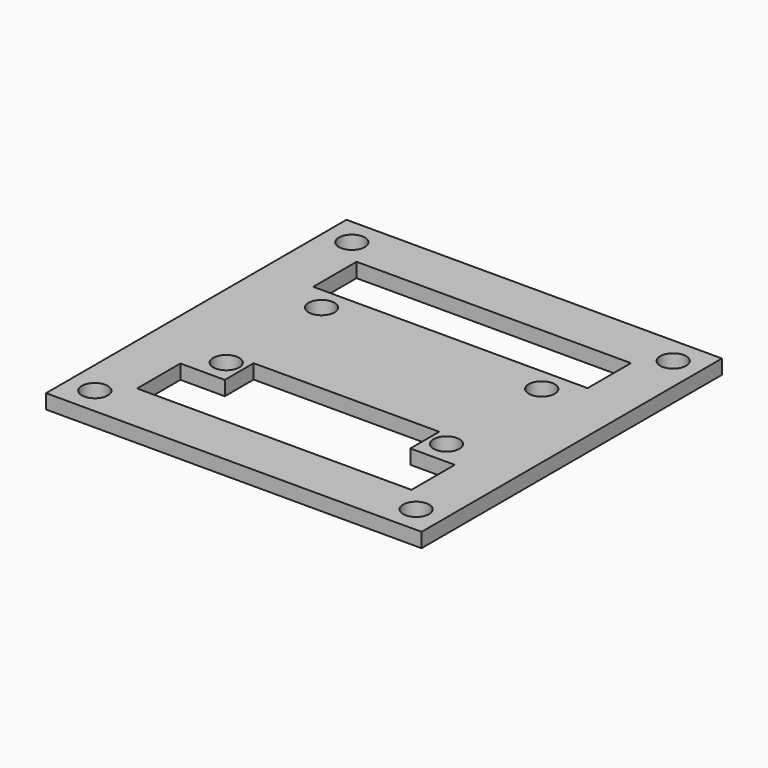
from build123d import *

# Parameters (mm, degrees)
SKETCH_W     = 52
SKETCH_H     = 52
SKETCH_R     = 1.8
SKETCH_W_2   = 38
SKETCH_H_2   = 7.5
PAD_DEPTH    = 2
SKETCH001_W  = 25.7
SKETCH001_H  = 8
POCKET_DEPTH = 5


with BuildPart() as part:
    # Sketch → Pad (new body)
    with BuildSketch(Plane.XY):
        Rectangle(SKETCH_W, SKETCH_H)
        with Locations((22.25, 22.25)):
            Circle(SKETCH_R, mode=Mode.SUBTRACT)
        with Locations((22.25, -22.25)):
            Circle(SKETCH_R, mode=Mode.SUBTRACT)
        with Locations((-22.25, 22.25)):
            Circle(SKETCH_R, mode=Mode.SUBTRACT)
        with Locations((-22.25, -22.25)):
            Circle(SKETCH_R, mode=Mode.SUBTRACT)
        with Locations((15.25, 8.25)):
            Circle(SKETCH_R, mode=Mode.SUBTRACT)
        with Locations((-15.25, 8.25)):
            Circle(SKETCH_R, mode=Mode.SUBTRACT)
        with Locations((-15.25, -8.25)):
            Circle(SKETCH_R, mode=Mode.SUBTRACT)
        with Locations((15.25, -8.25)):
            Circle(SKETCH_R, mode=Mode.SUBTRACT)
        with Locations((0, 15.25)):
            Rectangle(SKETCH_W_2, SKETCH_H_2, mode=Mode.SUBTRACT)
        with Locations((0, -15.25)):
            Rectangle(SKETCH_W_2, SKETCH_H_2, mode=Mode.SUBTRACT)
    extrude(amount=PAD_DEPTH)

    # Sketch001 → Pocket (cut)
    with BuildSketch(Plane.XY.offset(2)):
        with Locations((0, -10.5)):
            Rectangle(SKETCH001_W, SKETCH001_H)
    extrude(amount=-POCKET_DEPTH, mode=Mode.SUBTRACT)


solid = part.part
